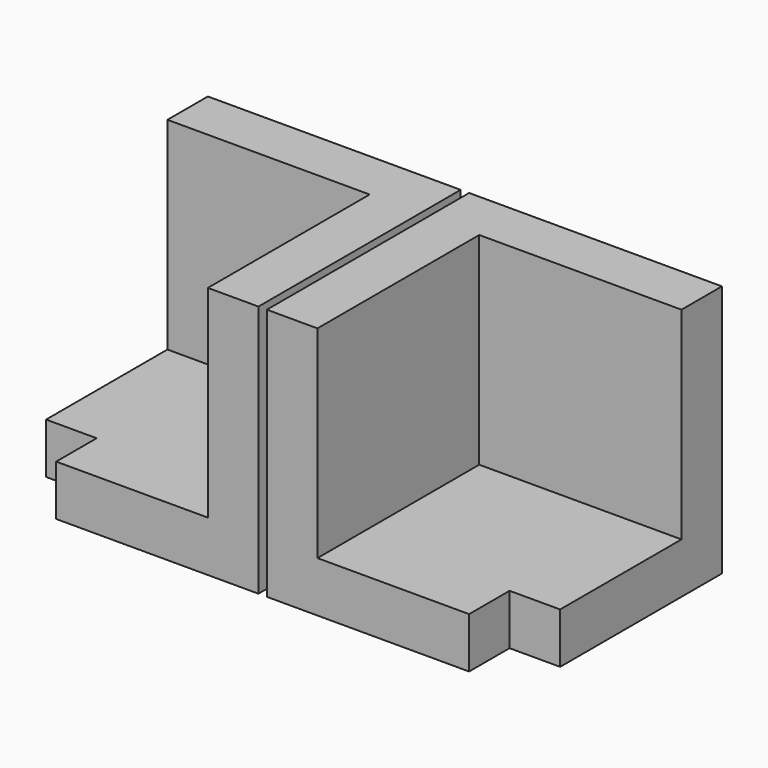
from build123d import *

# Parameters (mm, degrees)
F0_W     = 50.8
F0_H     = 12.7
F1_DEPTH = 12.7
F2_W     = 63.5
F2_H     = 12.7
F3_DEPTH = 50.8
F4_W     = 12.7
F4_H     = 50.8
F5_DEPTH = 50.8


with BuildPart() as f1:
    # F0 (on Top) → F1 (new body)
    with BuildSketch(Plane.XY):
        with Locations((-26.462255, -70.755516)):
            Rectangle(F0_W, F0_H)
        Polygon((-64.562255, -13.605516), (-64.562255, -64.405516), (-51.862255, -64.405516), (-1.062255, -64.405516), (-1.062255, -13.605516), align=None)
    extrude(amount=F1_DEPTH)

    # F2 (on face) → F3 (join)
    with BuildSketch(Plane.XY.offset(12.7)):
        with Locations((-32.812255, -19.955516)):
            Rectangle(F2_W, F2_H)
    extrude(amount=F3_DEPTH)

    # F4 (on face) → F5 (join)
    with BuildSketch(Plane.XZ.offset(26.305516)):
        with Locations((-7.412255, 38.1)):
            Rectangle(F4_W, F4_H)
    extrude(amount=F5_DEPTH)


with BuildPart() as f6_1:
    # F6: instance of F1
    add(f1.part.mirror(Plane.YZ))


solid = Compound([f1.part, f6_1.part])
